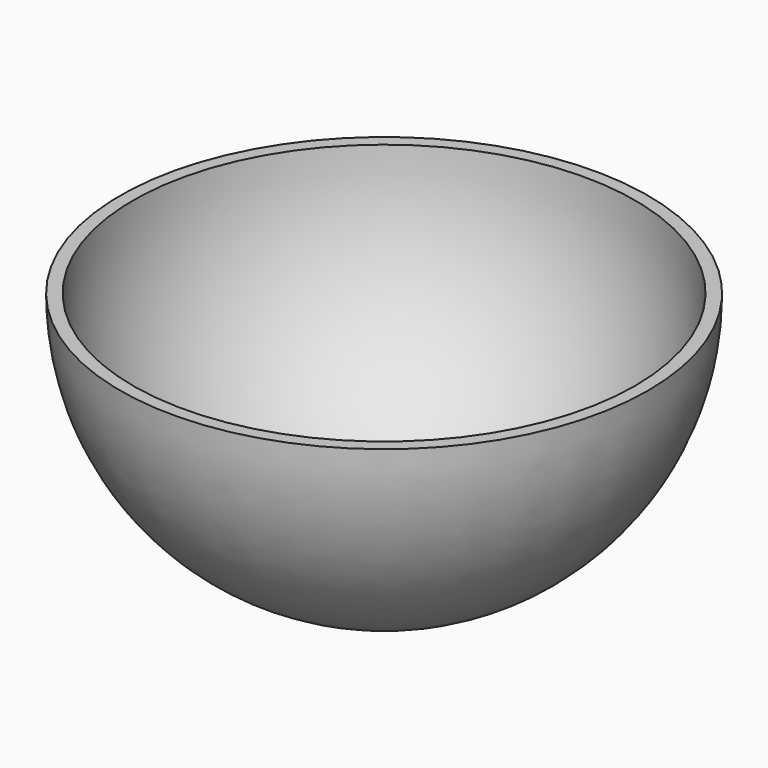
from build123d import *


with BuildPart() as f1:
    # F0 (on Front) → F1 (revolve)
    with BuildSketch(Plane.XZ):
        with BuildLine():
            ThreePointArc((0, -93.609661), (66.192026, -66.192026), (93.609661, 0))
            Line((93.609661, 0), (0, 0))
            Line((0, 0), (0, -93.609661))
        make_face()
    revolve(axis=Axis((0, 0, -46.80483), (0, 0, -1)))

    # F2 (on Front) → F3 (revolve, cut)
    with BuildSketch(Plane.XZ):
        with BuildLine():
            Line((0, 0), (0, -89.027435))
            ThreePointArc((0, -89.027435), (62.951903, -62.951903), (89.027435, 0))
            Line((89.027435, 0), (0, 0))
        make_face()
    revolve(axis=Axis((0, 0, -44.513717), (0, 0, -1)), mode=Mode.SUBTRACT)


solid = f1.part
